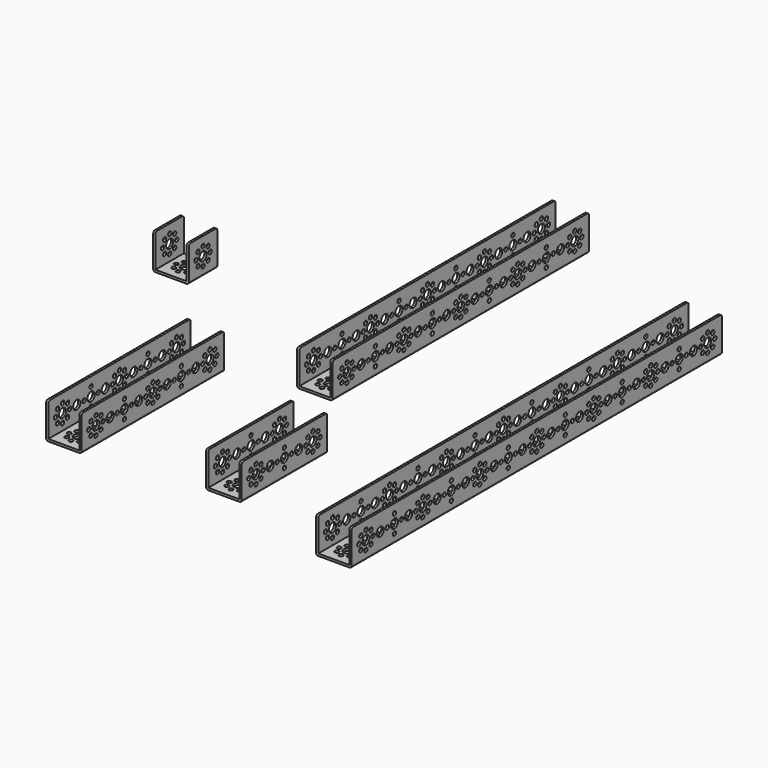
from build123d import *

# Parameters (mm, degrees)
F0_W      = 32
F0_H      = 96
F0_R      = 1.85
F0_R_2    = 4
F0_H_2    = 416
F0_H_3    = 160
F0_H_4    = 288
F1_DEPTH  = 32
F2_R      = 4
F2_R_2    = 1.85
F3_DEPTH  = 32
F4_W      = 28
F4_H      = 30
F5_DEPTH  = 96
F6_R      = 4
F6_R_2    = 1.85
F7_DEPTH  = 32
F8_W      = 28
F8_H      = 30
F9_DEPTH  = 416
F10_W     = 28
F10_H     = 30
F11_DEPTH = 508
F12_R     = 4
F12_R_2   = 1.85
F13_DEPTH = 76.2
F14_W     = 28
F14_H     = 30
F15_DEPTH = 304.8
F16_R     = 4
F16_R_2   = 1.85
F17_DEPTH = 50.8
F18_W     = 32
F18_H     = 32
F18_R     = 1.85
F18_R_2   = 4
F19_DEPTH = 32
F20_W     = 28
F20_H     = 30
F21_DEPTH = 304.8
F22_R     = 4
F22_R_2   = 1.85
F23_DEPTH = 127
F24_R     = 2
F24_2_R   = 2


with BuildPart() as f1:
    # F0 (on Top) → F1 (new body)
    with BuildSketch(Plane.XY):
        with Locations((-43.460014, -5.08384)):
            Rectangle(F0_W, F0_H)
        with Locations((-51.460014, -37.08384)):
            Circle(F0_R, mode=Mode.SUBTRACT)
        with Locations((-51.460014, -5.08384)):
            Circle(F0_R, mode=Mode.SUBTRACT)
        with Locations((-51.460014, 26.91616)):
            Circle(F0_R, mode=Mode.SUBTRACT)
        with Locations((-49.116868, -42.740695)):
            Circle(F0_R, mode=Mode.SUBTRACT)
        with Locations((-43.460014, -45.08384)):
            Circle(F0_R, mode=Mode.SUBTRACT)
        with Locations((-37.80316, -42.740695)):
            Circle(F0_R, mode=Mode.SUBTRACT)
        with Locations((-49.116868, -31.426986)):
            Circle(F0_R, mode=Mode.SUBTRACT)
        with Locations((-43.460014, -37.08384)):
            Circle(F0_R_2, mode=Mode.SUBTRACT)
        with Locations((-43.460014, -29.08384)):
            Circle(F0_R, mode=Mode.SUBTRACT)
        with Locations((-37.80316, -31.426986)):
            Circle(F0_R, mode=Mode.SUBTRACT)
        with Locations((-35.460014, -37.08384)):
            Circle(F0_R, mode=Mode.SUBTRACT)
        with Locations((-43.460014, -21.08384)):
            Circle(F0_R_2, mode=Mode.SUBTRACT)
        with Locations((-43.460014, -13.08384)):
            Circle(F0_R, mode=Mode.SUBTRACT)
        with Locations((-43.460014, -5.08384)):
            Circle(F0_R_2, mode=Mode.SUBTRACT)
        with Locations((-43.460014, 2.91616)):
            Circle(F0_R, mode=Mode.SUBTRACT)
        with Locations((-35.460014, -5.08384)):
            Circle(F0_R, mode=Mode.SUBTRACT)
        with Locations((-43.460014, 10.91616)):
            Circle(F0_R_2, mode=Mode.SUBTRACT)
        with Locations((-49.116868, 21.259305)):
            Circle(F0_R, mode=Mode.SUBTRACT)
        with Locations((-43.460014, 18.91616)):
            Circle(F0_R, mode=Mode.SUBTRACT)
        with Locations((-37.80316, 21.259305)):
            Circle(F0_R, mode=Mode.SUBTRACT)
        with Locations((-43.460014, 26.91616)):
            Circle(F0_R_2, mode=Mode.SUBTRACT)
        with Locations((-49.116868, 32.573014)):
            Circle(F0_R, mode=Mode.SUBTRACT)
        with Locations((-43.460014, 34.91616)):
            Circle(F0_R, mode=Mode.SUBTRACT)
        with Locations((-35.460014, 26.91616)):
            Circle(F0_R, mode=Mode.SUBTRACT)
        with Locations((-37.80316, 32.573014)):
            Circle(F0_R, mode=Mode.SUBTRACT)
        with Locations((79.225836, 125.137429)):
            Rectangle(F0_W, F0_H_2)
        with Locations((73.568981, -72.519425)):
            Circle(F0_R, mode=Mode.SUBTRACT)
        with Locations((71.225836, -66.862571)):
            Circle(F0_R, mode=Mode.SUBTRACT)
        with Locations((73.568981, -61.205717)):
            Circle(F0_R, mode=Mode.SUBTRACT)
        with Locations((79.225836, -74.862571)):
            Circle(F0_R, mode=Mode.SUBTRACT)
        with Locations((84.88269, -72.519425)):
            Circle(F0_R, mode=Mode.SUBTRACT)
        with Locations((79.225836, -66.862571)):
            Circle(F0_R_2, mode=Mode.SUBTRACT)
        with Locations((84.88269, -61.205717)):
            Circle(F0_R, mode=Mode.SUBTRACT)
        with Locations((79.225836, -58.862571)):
            Circle(F0_R, mode=Mode.SUBTRACT)
        with Locations((87.225836, -66.862571)):
            Circle(F0_R, mode=Mode.SUBTRACT)
        with Locations((71.225836, -34.862571)):
            Circle(F0_R, mode=Mode.SUBTRACT)
        with Locations((79.225836, -50.862571)):
            Circle(F0_R_2, mode=Mode.SUBTRACT)
        with Locations((79.225836, -42.862571)):
            Circle(F0_R, mode=Mode.SUBTRACT)
        with Locations((79.225836, -34.862571)):
            Circle(F0_R_2, mode=Mode.SUBTRACT)
        with Locations((79.225836, -26.862571)):
            Circle(F0_R, mode=Mode.SUBTRACT)
        with Locations((87.225836, -34.862571)):
            Circle(F0_R, mode=Mode.SUBTRACT)
        with Locations((73.568981, -8.519425)):
            Circle(F0_R, mode=Mode.SUBTRACT)
        with Locations((71.225836, -2.862571)):
            Circle(F0_R, mode=Mode.SUBTRACT)
        with Locations((73.568981, 2.794283)):
            Circle(F0_R, mode=Mode.SUBTRACT)
        with Locations((79.225836, -18.862571)):
            Circle(F0_R_2, mode=Mode.SUBTRACT)
        with Locations((79.225836, -10.862571)):
            Circle(F0_R, mode=Mode.SUBTRACT)
        with Locations((84.88269, -8.519425)):
            Circle(F0_R, mode=Mode.SUBTRACT)
        with Locations((79.225836, -2.862571)):
            Circle(F0_R_2, mode=Mode.SUBTRACT)
        with Locations((79.225836, 5.137429)):
            Circle(F0_R, mode=Mode.SUBTRACT)
        with Locations((84.88269, 2.794283)):
            Circle(F0_R, mode=Mode.SUBTRACT)
        with Locations((87.225836, -2.862571)):
            Circle(F0_R, mode=Mode.SUBTRACT)
        with Locations((71.225836, 29.137429)):
            Circle(F0_R, mode=Mode.SUBTRACT)
        with Locations((79.225836, 13.137429)):
            Circle(F0_R_2, mode=Mode.SUBTRACT)
        with Locations((79.225836, 21.137429)):
            Circle(F0_R, mode=Mode.SUBTRACT)
        with Locations((79.225836, 29.137429)):
            Circle(F0_R_2, mode=Mode.SUBTRACT)
        with Locations((87.225836, 29.137429)):
            Circle(F0_R, mode=Mode.SUBTRACT)
        with Locations((73.568981, 55.480575)):
            Circle(F0_R, mode=Mode.SUBTRACT)
        with Locations((71.225836, 61.137429)):
            Circle(F0_R, mode=Mode.SUBTRACT)
        with Locations((79.225836, 37.137429)):
            Circle(F0_R, mode=Mode.SUBTRACT)
        with Locations((79.225836, 45.137429)):
            Circle(F0_R_2, mode=Mode.SUBTRACT)
        with Locations((79.225836, 53.137429)):
            Circle(F0_R, mode=Mode.SUBTRACT)
        with Locations((84.88269, 55.480575)):
            Circle(F0_R, mode=Mode.SUBTRACT)
        with Locations((79.225836, 61.137429)):
            Circle(F0_R_2, mode=Mode.SUBTRACT)
        with Locations((87.225836, 61.137429)):
            Circle(F0_R, mode=Mode.SUBTRACT)
        with Locations((73.568981, 66.794283)):
            Circle(F0_R, mode=Mode.SUBTRACT)
        with Locations((71.225836, 93.137429)):
            Circle(F0_R, mode=Mode.SUBTRACT)
        with Locations((79.225836, 69.137429)):
            Circle(F0_R, mode=Mode.SUBTRACT)
        with Locations((84.88269, 66.794283)):
            Circle(F0_R, mode=Mode.SUBTRACT)
        with Locations((79.225836, 77.137429)):
            Circle(F0_R_2, mode=Mode.SUBTRACT)
        with Locations((79.225836, 85.137429)):
            Circle(F0_R, mode=Mode.SUBTRACT)
        with Locations((79.225836, 93.137429)):
            Circle(F0_R_2, mode=Mode.SUBTRACT)
        with Locations((87.225836, 93.137429)):
            Circle(F0_R, mode=Mode.SUBTRACT)
        with Locations((71.225836, 125.137429)):
            Circle(F0_R, mode=Mode.SUBTRACT)
        with Locations((73.568981, 119.480575)):
            Circle(F0_R, mode=Mode.SUBTRACT)
        with Locations((79.225836, 101.137429)):
            Circle(F0_R, mode=Mode.SUBTRACT)
        with Locations((79.225836, 109.137429)):
            Circle(F0_R_2, mode=Mode.SUBTRACT)
        with Locations((79.225836, 117.137429)):
            Circle(F0_R, mode=Mode.SUBTRACT)
        with Locations((79.225836, 125.137429)):
            Circle(F0_R_2, mode=Mode.SUBTRACT)
        with Locations((84.88269, 119.480575)):
            Circle(F0_R, mode=Mode.SUBTRACT)
        with Locations((87.225836, 125.137429)):
            Circle(F0_R, mode=Mode.SUBTRACT)
        with Locations((73.568981, 130.794283)):
            Circle(F0_R, mode=Mode.SUBTRACT)
        with Locations((79.225836, 133.137429)):
            Circle(F0_R, mode=Mode.SUBTRACT)
        with Locations((84.88269, 130.794283)):
            Circle(F0_R, mode=Mode.SUBTRACT)
        with Locations((79.225836, 141.137429)):
            Circle(F0_R_2, mode=Mode.SUBTRACT)
        with Locations((79.225836, 149.137429)):
            Circle(F0_R, mode=Mode.SUBTRACT)
        with Locations((71.225836, 157.137429)):
            Circle(F0_R, mode=Mode.SUBTRACT)
        with Locations((73.568981, 183.480575)):
            Circle(F0_R, mode=Mode.SUBTRACT)
        with Locations((79.225836, 157.137429)):
            Circle(F0_R_2, mode=Mode.SUBTRACT)
        with Locations((79.225836, 165.137429)):
            Circle(F0_R, mode=Mode.SUBTRACT)
        with Locations((87.225836, 157.137429)):
            Circle(F0_R, mode=Mode.SUBTRACT)
        with Locations((79.225836, 173.137429)):
            Circle(F0_R_2, mode=Mode.SUBTRACT)
        with Locations((79.225836, 181.137429)):
            Circle(F0_R, mode=Mode.SUBTRACT)
        with Locations((84.88269, 183.480575)):
            Circle(F0_R, mode=Mode.SUBTRACT)
        with Locations((71.225836, 189.137429)):
            Circle(F0_R, mode=Mode.SUBTRACT)
        with Locations((73.568981, 194.794283)):
            Circle(F0_R, mode=Mode.SUBTRACT)
        with Locations((79.225836, 189.137429)):
            Circle(F0_R_2, mode=Mode.SUBTRACT)
        with Locations((79.225836, 197.137429)):
            Circle(F0_R, mode=Mode.SUBTRACT)
        with Locations((84.88269, 194.794283)):
            Circle(F0_R, mode=Mode.SUBTRACT)
        with Locations((87.225836, 189.137429)):
            Circle(F0_R, mode=Mode.SUBTRACT)
        with Locations((79.225836, 205.137429)):
            Circle(F0_R_2, mode=Mode.SUBTRACT)
        with Locations((79.225836, 213.137429)):
            Circle(F0_R, mode=Mode.SUBTRACT)
        with Locations((71.225836, 221.137429)):
            Circle(F0_R, mode=Mode.SUBTRACT)
        with Locations((79.225836, 221.137429)):
            Circle(F0_R_2, mode=Mode.SUBTRACT)
        with Locations((79.225836, 229.137429)):
            Circle(F0_R, mode=Mode.SUBTRACT)
        with Locations((87.225836, 221.137429)):
            Circle(F0_R, mode=Mode.SUBTRACT)
        with Locations((79.225836, 237.137429)):
            Circle(F0_R_2, mode=Mode.SUBTRACT)
        with Locations((79.225836, 245.137429)):
            Circle(F0_R, mode=Mode.SUBTRACT)
        with Locations((71.225836, 253.137429)):
            Circle(F0_R, mode=Mode.SUBTRACT)
        with Locations((73.568981, 247.480575)):
            Circle(F0_R, mode=Mode.SUBTRACT)
        with Locations((73.568981, 258.794283)):
            Circle(F0_R, mode=Mode.SUBTRACT)
        with Locations((79.225836, 253.137429)):
            Circle(F0_R_2, mode=Mode.SUBTRACT)
        with Locations((84.88269, 247.480575)):
            Circle(F0_R, mode=Mode.SUBTRACT)
        with Locations((84.88269, 258.794283)):
            Circle(F0_R, mode=Mode.SUBTRACT)
        with Locations((87.225836, 253.137429)):
            Circle(F0_R, mode=Mode.SUBTRACT)
        with Locations((79.225836, 261.137429)):
            Circle(F0_R, mode=Mode.SUBTRACT)
        with Locations((79.225836, 269.137429)):
            Circle(F0_R_2, mode=Mode.SUBTRACT)
        with Locations((71.225836, 285.137429)):
            Circle(F0_R, mode=Mode.SUBTRACT)
        with Locations((79.225836, 277.137429)):
            Circle(F0_R, mode=Mode.SUBTRACT)
        with Locations((79.225836, 285.137429)):
            Circle(F0_R_2, mode=Mode.SUBTRACT)
        with Locations((87.225836, 285.137429)):
            Circle(F0_R, mode=Mode.SUBTRACT)
        with Locations((79.225836, 293.137429)):
            Circle(F0_R, mode=Mode.SUBTRACT)
        with Locations((79.225836, 301.137429)):
            Circle(F0_R_2, mode=Mode.SUBTRACT)
        with Locations((73.568981, 311.480575)):
            Circle(F0_R, mode=Mode.SUBTRACT)
        with Locations((71.225836, 317.137429)):
            Circle(F0_R, mode=Mode.SUBTRACT)
        with Locations((73.568981, 322.794283)):
            Circle(F0_R, mode=Mode.SUBTRACT)
        with Locations((79.225836, 309.137429)):
            Circle(F0_R, mode=Mode.SUBTRACT)
        with Locations((84.88269, 311.480575)):
            Circle(F0_R, mode=Mode.SUBTRACT)
        with Locations((79.225836, 317.137429)):
            Circle(F0_R_2, mode=Mode.SUBTRACT)
        with Locations((87.225836, 317.137429)):
            Circle(F0_R, mode=Mode.SUBTRACT)
        with Locations((79.225836, 325.137429)):
            Circle(F0_R, mode=Mode.SUBTRACT)
        with Locations((84.88269, 322.794283)):
            Circle(F0_R, mode=Mode.SUBTRACT)
        with Locations((-177.520144, 14.724279)):
            Rectangle(F0_W, F0_H_3)
        with Locations((-183.176998, -54.932576)):
            Circle(F0_R, mode=Mode.SUBTRACT)
        with Locations((-177.520144, -57.275721)):
            Circle(F0_R, mode=Mode.SUBTRACT)
        with Locations((-171.863289, -54.932576)):
            Circle(F0_R, mode=Mode.SUBTRACT)
        with Locations((-185.520144, -49.275721)):
            Circle(F0_R, mode=Mode.SUBTRACT)
        with Locations((-177.520144, -49.275721)):
            Circle(F0_R_2, mode=Mode.SUBTRACT)
        with Locations((-183.176998, -43.618867)):
            Circle(F0_R, mode=Mode.SUBTRACT)
        with Locations((-177.520144, -41.275721)):
            Circle(F0_R, mode=Mode.SUBTRACT)
        with Locations((-177.520144, -33.275721)):
            Circle(F0_R_2, mode=Mode.SUBTRACT)
        with Locations((-177.520144, -25.275721)):
            Circle(F0_R, mode=Mode.SUBTRACT)
        with Locations((-169.520144, -49.275721)):
            Circle(F0_R, mode=Mode.SUBTRACT)
        with Locations((-171.863289, -43.618867)):
            Circle(F0_R, mode=Mode.SUBTRACT)
        with Locations((-185.520144, -17.275721)):
            Circle(F0_R, mode=Mode.SUBTRACT)
        with Locations((-177.520144, -17.275721)):
            Circle(F0_R_2, mode=Mode.SUBTRACT)
        with Locations((-177.520144, -9.275721)):
            Circle(F0_R, mode=Mode.SUBTRACT)
        with Locations((-177.520144, -1.275721)):
            Circle(F0_R_2, mode=Mode.SUBTRACT)
        with Locations((-177.520144, 6.724279)):
            Circle(F0_R, mode=Mode.SUBTRACT)
        with Locations((-169.520144, -17.275721)):
            Circle(F0_R, mode=Mode.SUBTRACT)
        with Locations((-185.520144, 14.724279)):
            Circle(F0_R, mode=Mode.SUBTRACT)
        with Locations((-183.176998, 9.067424)):
            Circle(F0_R, mode=Mode.SUBTRACT)
        with Locations((-183.176998, 20.381133)):
            Circle(F0_R, mode=Mode.SUBTRACT)
        with Locations((-177.520144, 14.724279)):
            Circle(F0_R_2, mode=Mode.SUBTRACT)
        with Locations((-177.520144, 22.724279)):
            Circle(F0_R, mode=Mode.SUBTRACT)
        with Locations((-177.520144, 30.724279)):
            Circle(F0_R_2, mode=Mode.SUBTRACT)
        with Locations((-171.863289, 9.067424)):
            Circle(F0_R, mode=Mode.SUBTRACT)
        with Locations((-171.863289, 20.381133)):
            Circle(F0_R, mode=Mode.SUBTRACT)
        with Locations((-169.520144, 14.724279)):
            Circle(F0_R, mode=Mode.SUBTRACT)
        with Locations((-185.520144, 46.724279)):
            Circle(F0_R, mode=Mode.SUBTRACT)
        with Locations((-177.520144, 38.724279)):
            Circle(F0_R, mode=Mode.SUBTRACT)
        with Locations((-177.520144, 46.724279)):
            Circle(F0_R_2, mode=Mode.SUBTRACT)
        with Locations((-177.520144, 54.724279)):
            Circle(F0_R, mode=Mode.SUBTRACT)
        with Locations((-177.520144, 62.724279)):
            Circle(F0_R_2, mode=Mode.SUBTRACT)
        with Locations((-169.520144, 46.724279)):
            Circle(F0_R, mode=Mode.SUBTRACT)
        with Locations((-185.520144, 78.724279)):
            Circle(F0_R, mode=Mode.SUBTRACT)
        with Locations((-183.176998, 73.067424)):
            Circle(F0_R, mode=Mode.SUBTRACT)
        with Locations((-177.520144, 70.724279)):
            Circle(F0_R, mode=Mode.SUBTRACT)
        with Locations((-177.520144, 78.724279)):
            Circle(F0_R_2, mode=Mode.SUBTRACT)
        with Locations((-183.176998, 84.381133)):
            Circle(F0_R, mode=Mode.SUBTRACT)
        with Locations((-177.520144, 86.724279)):
            Circle(F0_R, mode=Mode.SUBTRACT)
        with Locations((-171.863289, 73.067424)):
            Circle(F0_R, mode=Mode.SUBTRACT)
        with Locations((-169.520144, 78.724279)):
            Circle(F0_R, mode=Mode.SUBTRACT)
        with Locations((-171.863289, 84.381133)):
            Circle(F0_R, mode=Mode.SUBTRACT)
        with Locations((-90.071611, 251.399352)):
            Rectangle(F0_W, F0_H_4)
        with Locations((-95.728465, 117.742498)):
            Circle(F0_R, mode=Mode.SUBTRACT)
        with Locations((-98.071611, 123.399352)):
            Circle(F0_R, mode=Mode.SUBTRACT)
        with Locations((-90.071611, 115.399352)):
            Circle(F0_R, mode=Mode.SUBTRACT)
        with Locations((-90.071611, 123.399352)):
            Circle(F0_R_2, mode=Mode.SUBTRACT)
        with Locations((-95.728465, 129.056206)):
            Circle(F0_R, mode=Mode.SUBTRACT)
        with Locations((-90.071611, 131.399352)):
            Circle(F0_R, mode=Mode.SUBTRACT)
        with Locations((-90.071611, 139.399352)):
            Circle(F0_R_2, mode=Mode.SUBTRACT)
        with Locations((-98.071611, 155.399352)):
            Circle(F0_R, mode=Mode.SUBTRACT)
        with Locations((-90.071611, 147.399352)):
            Circle(F0_R, mode=Mode.SUBTRACT)
        with Locations((-90.071611, 155.399352)):
            Circle(F0_R_2, mode=Mode.SUBTRACT)
        with Locations((-84.414757, 117.742498)):
            Circle(F0_R, mode=Mode.SUBTRACT)
        with Locations((-82.071611, 123.399352)):
            Circle(F0_R, mode=Mode.SUBTRACT)
        with Locations((-84.414757, 129.056206)):
            Circle(F0_R, mode=Mode.SUBTRACT)
        with Locations((-82.071611, 155.399352)):
            Circle(F0_R, mode=Mode.SUBTRACT)
        with Locations((-90.071611, 163.399352)):
            Circle(F0_R, mode=Mode.SUBTRACT)
        with Locations((-95.728465, 181.742498)):
            Circle(F0_R, mode=Mode.SUBTRACT)
        with Locations((-90.071611, 171.399352)):
            Circle(F0_R_2, mode=Mode.SUBTRACT)
        with Locations((-90.071611, 179.399352)):
            Circle(F0_R, mode=Mode.SUBTRACT)
        with Locations((-98.071611, 187.399352)):
            Circle(F0_R, mode=Mode.SUBTRACT)
        with Locations((-95.728465, 193.056206)):
            Circle(F0_R, mode=Mode.SUBTRACT)
        with Locations((-90.071611, 187.399352)):
            Circle(F0_R_2, mode=Mode.SUBTRACT)
        with Locations((-90.071611, 195.399352)):
            Circle(F0_R, mode=Mode.SUBTRACT)
        with Locations((-90.071611, 203.399352)):
            Circle(F0_R_2, mode=Mode.SUBTRACT)
        with Locations((-90.071611, 211.399352)):
            Circle(F0_R, mode=Mode.SUBTRACT)
        with Locations((-84.414757, 181.742498)):
            Circle(F0_R, mode=Mode.SUBTRACT)
        with Locations((-82.071611, 187.399352)):
            Circle(F0_R, mode=Mode.SUBTRACT)
        with Locations((-84.414757, 193.056206)):
            Circle(F0_R, mode=Mode.SUBTRACT)
        with Locations((-98.071611, 219.399352)):
            Circle(F0_R, mode=Mode.SUBTRACT)
        with Locations((-90.071611, 219.399352)):
            Circle(F0_R_2, mode=Mode.SUBTRACT)
        with Locations((-90.071611, 227.399352)):
            Circle(F0_R, mode=Mode.SUBTRACT)
        with Locations((-95.728465, 245.742498)):
            Circle(F0_R, mode=Mode.SUBTRACT)
        with Locations((-90.071611, 235.399352)):
            Circle(F0_R_2, mode=Mode.SUBTRACT)
        with Locations((-90.071611, 243.399352)):
            Circle(F0_R, mode=Mode.SUBTRACT)
        with Locations((-98.071611, 251.399352)):
            Circle(F0_R, mode=Mode.SUBTRACT)
        with Locations((-95.728465, 257.056206)):
            Circle(F0_R, mode=Mode.SUBTRACT)
        with Locations((-90.071611, 251.399352)):
            Circle(F0_R_2, mode=Mode.SUBTRACT)
        with Locations((-90.071611, 259.399352)):
            Circle(F0_R, mode=Mode.SUBTRACT)
        with Locations((-90.071611, 267.399352)):
            Circle(F0_R_2, mode=Mode.SUBTRACT)
        with Locations((-90.071611, 275.399352)):
            Circle(F0_R, mode=Mode.SUBTRACT)
        with Locations((-82.071611, 219.399352)):
            Circle(F0_R, mode=Mode.SUBTRACT)
        with Locations((-84.414757, 245.742498)):
            Circle(F0_R, mode=Mode.SUBTRACT)
        with Locations((-82.071611, 251.399352)):
            Circle(F0_R, mode=Mode.SUBTRACT)
        with Locations((-84.414757, 257.056206)):
            Circle(F0_R, mode=Mode.SUBTRACT)
        with Locations((-98.071611, 283.399352)):
            Circle(F0_R, mode=Mode.SUBTRACT)
        with Locations((-90.071611, 283.399352)):
            Circle(F0_R_2, mode=Mode.SUBTRACT)
        with Locations((-90.071611, 291.399352)):
            Circle(F0_R, mode=Mode.SUBTRACT)
        with Locations((-90.071611, 299.399352)):
            Circle(F0_R_2, mode=Mode.SUBTRACT)
        with Locations((-95.728465, 309.742498)):
            Circle(F0_R, mode=Mode.SUBTRACT)
        with Locations((-98.071611, 315.399352)):
            Circle(F0_R, mode=Mode.SUBTRACT)
        with Locations((-90.071611, 307.399352)):
            Circle(F0_R, mode=Mode.SUBTRACT)
        with Locations((-90.071611, 315.399352)):
            Circle(F0_R_2, mode=Mode.SUBTRACT)
        with Locations((-95.728465, 321.056206)):
            Circle(F0_R, mode=Mode.SUBTRACT)
        with Locations((-90.071611, 323.399352)):
            Circle(F0_R, mode=Mode.SUBTRACT)
        with Locations((-90.071611, 331.399352)):
            Circle(F0_R_2, mode=Mode.SUBTRACT)
        with Locations((-82.071611, 283.399352)):
            Circle(F0_R, mode=Mode.SUBTRACT)
        with Locations((-84.414757, 309.742498)):
            Circle(F0_R, mode=Mode.SUBTRACT)
        with Locations((-82.071611, 315.399352)):
            Circle(F0_R, mode=Mode.SUBTRACT)
        with Locations((-84.414757, 321.056206)):
            Circle(F0_R, mode=Mode.SUBTRACT)
        with Locations((-98.071611, 347.399352)):
            Circle(F0_R, mode=Mode.SUBTRACT)
        with Locations((-90.071611, 339.399352)):
            Circle(F0_R, mode=Mode.SUBTRACT)
        with Locations((-90.071611, 347.399352)):
            Circle(F0_R_2, mode=Mode.SUBTRACT)
        with Locations((-90.071611, 355.399352)):
            Circle(F0_R, mode=Mode.SUBTRACT)
        with Locations((-90.071611, 363.399352)):
            Circle(F0_R_2, mode=Mode.SUBTRACT)
        with Locations((-95.728465, 373.742498)):
            Circle(F0_R, mode=Mode.SUBTRACT)
        with Locations((-98.071611, 379.399352)):
            Circle(F0_R, mode=Mode.SUBTRACT)
        with Locations((-90.071611, 371.399352)):
            Circle(F0_R, mode=Mode.SUBTRACT)
        with Locations((-90.071611, 379.399352)):
            Circle(F0_R_2, mode=Mode.SUBTRACT)
        with Locations((-95.728465, 385.056206)):
            Circle(F0_R, mode=Mode.SUBTRACT)
        with Locations((-90.071611, 387.399352)):
            Circle(F0_R, mode=Mode.SUBTRACT)
        with Locations((-82.071611, 347.399352)):
            Circle(F0_R, mode=Mode.SUBTRACT)
        with Locations((-84.414757, 373.742498)):
            Circle(F0_R, mode=Mode.SUBTRACT)
        with Locations((-82.071611, 379.399352)):
            Circle(F0_R, mode=Mode.SUBTRACT)
        with Locations((-84.414757, 385.056206)):
            Circle(F0_R, mode=Mode.SUBTRACT)
    extrude(amount=F1_DEPTH)

    # F2 (on face) → F3 (cut)
    with BuildSketch(Plane.YZ.offset(-27.460014)):
        with Locations((-37.08384, 16)):
            Circle(F2_R)
        with Locations((-45.08384, 16)):
            Circle(F2_R_2)
        with Locations((-42.740695, 10.343146)):
            Circle(F2_R_2)
        with Locations((-37.08384, 8)):
            Circle(F2_R_2)
        with Locations((-31.426986, 10.343146)):
            Circle(F2_R_2)
        with Locations((-29.08384, 16)):
            Circle(F2_R_2)
        with Locations((-31.426986, 21.656854)):
            Circle(F2_R_2)
        with Locations((-37.08384, 24)):
            Circle(F2_R_2)
        with Locations((-42.740695, 21.656854)):
            Circle(F2_R_2)
        with Locations((2.91616, 16)):
            Circle(F2_R_2)
        with Locations((-5.08384, 8)):
            Circle(F2_R_2)
        with Locations((-13.08384, 16)):
            Circle(F2_R_2)
        with Locations((-5.08384, 24)):
            Circle(F2_R_2)
        with Locations((34.91616, 16)):
            Circle(F2_R_2)
        with Locations((32.573014, 10.343146)):
            Circle(F2_R_2)
        with Locations((26.91616, 8)):
            Circle(F2_R_2)
        with Locations((21.259305, 10.343146)):
            Circle(F2_R_2)
        with Locations((18.91616, 16)):
            Circle(F2_R_2)
        with Locations((21.259305, 21.656854)):
            Circle(F2_R_2)
        with Locations((26.91616, 24)):
            Circle(F2_R_2)
        with Locations((32.573014, 21.656854)):
            Circle(F2_R_2)
        with Locations((-21.08384, 16)):
            Circle(F2_R)
        with Locations((-5.08384, 16)):
            Circle(F2_R)
        with Locations((10.91616, 16)):
            Circle(F2_R)
        with Locations((26.91616, 16)):
            Circle(F2_R)
    extrude(amount=-F3_DEPTH, mode=Mode.SUBTRACT)

    # F4 (on face) → F5 (cut)
    with BuildSketch(Plane.XZ.offset(53.08384)):
        with Locations((-43.460014, 17)):
            Rectangle(F4_W, F4_H)
    extrude(amount=-F5_DEPTH, mode=Mode.SUBTRACT)

    # F6 (on face) → F7 (cut)
    with BuildSketch(Plane.YZ.offset(95.225836)):
        with Locations((-66.862571, 16)):
            Circle(F6_R)
        with Locations((-74.862571, 16)):
            Circle(F6_R_2)
        with Locations((-72.519425, 10.343146)):
            Circle(F6_R_2)
        with Locations((-66.862571, 8)):
            Circle(F6_R_2)
        with Locations((-61.205717, 10.343146)):
            Circle(F6_R_2)
        with Locations((-58.862571, 16)):
            Circle(F6_R_2)
        with Locations((-61.205717, 21.656854)):
            Circle(F6_R_2)
        with Locations((-66.862571, 24)):
            Circle(F6_R_2)
        with Locations((-72.519425, 21.656854)):
            Circle(F6_R_2)
        with Locations((-50.862571, 16)):
            Circle(F6_R)
        with Locations((-34.862571, 16)):
            Circle(F6_R)
        with Locations((-18.862571, 16)):
            Circle(F6_R)
        with Locations((-2.862571, 16)):
            Circle(F6_R)
        with Locations((13.137429, 16)):
            Circle(F6_R)
        with Locations((29.137429, 16)):
            Circle(F6_R)
        with Locations((45.137429, 16)):
            Circle(F6_R)
        with Locations((61.137429, 16)):
            Circle(F6_R)
        with Locations((77.137429, 16)):
            Circle(F6_R)
        with Locations((93.137429, 16)):
            Circle(F6_R)
        with Locations((109.137429, 16)):
            Circle(F6_R)
        with Locations((125.137429, 16)):
            Circle(F6_R)
        with Locations((141.137429, 16)):
            Circle(F6_R)
        with Locations((157.137429, 16)):
            Circle(F6_R)
        with Locations((173.137429, 16)):
            Circle(F6_R)
        with Locations((189.137429, 16)):
            Circle(F6_R)
        with Locations((205.137429, 16)):
            Circle(F6_R)
        with Locations((221.137429, 16)):
            Circle(F6_R)
        with Locations((237.137429, 16)):
            Circle(F6_R)
        with Locations((253.137429, 16)):
            Circle(F6_R)
        with Locations((269.137429, 16)):
            Circle(F6_R)
        with Locations((285.137429, 16)):
            Circle(F6_R)
        with Locations((301.137429, 16)):
            Circle(F6_R)
        with Locations((317.137429, 16)):
            Circle(F6_R)
        with Locations((-34.862571, 8)):
            Circle(F6_R_2)
        with Locations((-42.862571, 16)):
            Circle(F6_R_2)
        with Locations((-34.862571, 24)):
            Circle(F6_R_2)
        with Locations((-26.862571, 16)):
            Circle(F6_R_2)
        with Locations((-2.862571, 8)):
            Circle(F6_R_2)
        with Locations((-10.862571, 16)):
            Circle(F6_R_2)
        with Locations((-2.862571, 24)):
            Circle(F6_R_2)
        with Locations((5.137429, 16)):
            Circle(F6_R_2)
        with Locations((29.137429, 8)):
            Circle(F6_R_2)
        with Locations((21.137429, 16)):
            Circle(F6_R_2)
        with Locations((29.137429, 24)):
            Circle(F6_R_2)
        with Locations((37.137429, 16)):
            Circle(F6_R_2)
        with Locations((61.137429, 8)):
            Circle(F6_R_2)
        with Locations((53.137429, 16)):
            Circle(F6_R_2)
        with Locations((61.137429, 24)):
            Circle(F6_R_2)
        with Locations((69.137429, 16)):
            Circle(F6_R_2)
        with Locations((93.137429, 8)):
            Circle(F6_R_2)
        with Locations((85.137429, 16)):
            Circle(F6_R_2)
        with Locations((93.137429, 24)):
            Circle(F6_R_2)
        with Locations((101.137429, 16)):
            Circle(F6_R_2)
        with Locations((125.137429, 8)):
            Circle(F6_R_2)
        with Locations((117.137429, 16)):
            Circle(F6_R_2)
        with Locations((125.137429, 24)):
            Circle(F6_R_2)
        with Locations((133.137429, 16)):
            Circle(F6_R_2)
        with Locations((157.137429, 8)):
            Circle(F6_R_2)
        with Locations((149.137429, 16)):
            Circle(F6_R_2)
        with Locations((157.137429, 24)):
            Circle(F6_R_2)
        with Locations((165.137429, 16)):
            Circle(F6_R_2)
        with Locations((189.137429, 8)):
            Circle(F6_R_2)
        with Locations((181.137429, 16)):
            Circle(F6_R_2)
        with Locations((189.137429, 24)):
            Circle(F6_R_2)
        with Locations((197.137429, 16)):
            Circle(F6_R_2)
        with Locations((221.137429, 8)):
            Circle(F6_R_2)
        with Locations((213.137429, 16)):
            Circle(F6_R_2)
        with Locations((221.137429, 24)):
            Circle(F6_R_2)
        with Locations((229.137429, 16)):
            Circle(F6_R_2)
        with Locations((253.137429, 8)):
            Circle(F6_R_2)
        with Locations((245.137429, 16)):
            Circle(F6_R_2)
        with Locations((253.137429, 24)):
            Circle(F6_R_2)
        with Locations((261.137429, 16)):
            Circle(F6_R_2)
        with Locations((285.137429, 8)):
            Circle(F6_R_2)
        with Locations((277.137429, 16)):
            Circle(F6_R_2)
        with Locations((285.137429, 24)):
            Circle(F6_R_2)
        with Locations((293.137429, 16)):
            Circle(F6_R_2)
        with Locations((317.137429, 8)):
            Circle(F6_R_2)
        with Locations((309.137429, 16)):
            Circle(F6_R_2)
        with Locations((317.137429, 24)):
            Circle(F6_R_2)
        with Locations((325.137429, 16)):
            Circle(F6_R_2)
        with Locations((2.794283, 10.343146)):
            Circle(F6_R_2)
        with Locations((-8.519425, 10.343146)):
            Circle(F6_R_2)
        with Locations((-8.519425, 21.656854)):
            Circle(F6_R_2)
        with Locations((2.794283, 21.656854)):
            Circle(F6_R_2)
        with Locations((66.794283, 10.343146)):
            Circle(F6_R_2)
        with Locations((55.480575, 10.343146)):
            Circle(F6_R_2)
        with Locations((55.480575, 21.656854)):
            Circle(F6_R_2)
        with Locations((66.794283, 21.656854)):
            Circle(F6_R_2)
        with Locations((130.794283, 10.343146)):
            Circle(F6_R_2)
        with Locations((119.480575, 10.343146)):
            Circle(F6_R_2)
        with Locations((119.480575, 21.656854)):
            Circle(F6_R_2)
        with Locations((130.794283, 21.656854)):
            Circle(F6_R_2)
        with Locations((194.794283, 10.343146)):
            Circle(F6_R_2)
        with Locations((183.480575, 10.343146)):
            Circle(F6_R_2)
        with Locations((183.480575, 21.656854)):
            Circle(F6_R_2)
        with Locations((194.794283, 21.656854)):
            Circle(F6_R_2)
        with Locations((258.794283, 10.343146)):
            Circle(F6_R_2)
        with Locations((247.480575, 10.343146)):
            Circle(F6_R_2)
        with Locations((247.480575, 21.656854)):
            Circle(F6_R_2)
        with Locations((258.794283, 21.656854)):
            Circle(F6_R_2)
        with Locations((322.794283, 10.343146)):
            Circle(F6_R_2)
        with Locations((311.480575, 10.343146)):
            Circle(F6_R_2)
        with Locations((311.480575, 21.656854)):
            Circle(F6_R_2)
        with Locations((322.794283, 21.656854)):
            Circle(F6_R_2)
    extrude(amount=-F7_DEPTH, mode=Mode.SUBTRACT)

    # F8 (on face) → F9 (cut)
    with BuildSketch(Plane.XZ.offset(82.862571)):
        with Locations((79.225836, 17)):
            Rectangle(F8_W, F8_H)
    extrude(amount=-F9_DEPTH, mode=Mode.SUBTRACT)

    # F10 (on face) → F11 (cut)
    with BuildSketch(Plane.XZ.offset(65.275721)):
        with Locations((-177.520144, 17)):
            Rectangle(F10_W, F10_H)
    extrude(amount=-F11_DEPTH, mode=Mode.SUBTRACT)

    # F12 (on face) → F13 (cut)
    with BuildSketch(Plane(origin=(-193.520144, 0, 0), x_dir=(0, -1, 0), z_dir=(-1, 0, 0))):
        with Locations((-78.724279, 16)):
            Circle(F12_R)
        with Locations((-86.724279, 16)):
            Circle(F12_R_2)
        with Locations((-84.381133, 10.343146)):
            Circle(F12_R_2)
        with Locations((-78.724279, 8)):
            Circle(F12_R_2)
        with Locations((-73.067424, 10.343146)):
            Circle(F12_R_2)
        with Locations((-70.724279, 16)):
            Circle(F12_R_2)
        with Locations((-73.067424, 21.656854)):
            Circle(F12_R_2)
        with Locations((-78.724279, 24)):
            Circle(F12_R_2)
        with Locations((-84.381133, 21.656854)):
            Circle(F12_R_2)
        with Locations((-46.724279, 8)):
            Circle(F12_R_2)
        with Locations((-46.724279, 16)):
            Circle(F12_R)
        with Locations((-54.724279, 16)):
            Circle(F12_R_2)
        with Locations((-46.724279, 24)):
            Circle(F12_R_2)
        with Locations((-38.724279, 16)):
            Circle(F12_R_2)
        with Locations((-9.067424, 10.343146)):
            Circle(F12_R_2)
        with Locations((-14.724279, 8)):
            Circle(F12_R_2)
        with Locations((-20.381133, 10.343146)):
            Circle(F12_R_2)
        with Locations((-14.724279, 16)):
            Circle(F12_R)
        with Locations((-22.724279, 16)):
            Circle(F12_R_2)
        with Locations((-20.381133, 21.656854)):
            Circle(F12_R_2)
        with Locations((-14.724279, 24)):
            Circle(F12_R_2)
        with Locations((-9.067424, 21.656854)):
            Circle(F12_R_2)
        with Locations((-6.724279, 16)):
            Circle(F12_R_2)
        with Locations((17.275721, 8)):
            Circle(F12_R_2)
        with Locations((17.275721, 16)):
            Circle(F12_R)
        with Locations((9.275721, 16)):
            Circle(F12_R_2)
        with Locations((17.275721, 24)):
            Circle(F12_R_2)
        with Locations((25.275721, 16)):
            Circle(F12_R_2)
        with Locations((54.932576, 10.343146)):
            Circle(F12_R_2)
        with Locations((49.275721, 8)):
            Circle(F12_R_2)
        with Locations((43.618867, 10.343146)):
            Circle(F12_R_2)
        with Locations((49.275721, 16)):
            Circle(F12_R)
        with Locations((41.275721, 16)):
            Circle(F12_R_2)
        with Locations((43.618867, 21.656854)):
            Circle(F12_R_2)
        with Locations((49.275721, 24)):
            Circle(F12_R_2)
        with Locations((54.932576, 21.656854)):
            Circle(F12_R_2)
        with Locations((57.275721, 16)):
            Circle(F12_R_2)
        with Locations((-62.724279, 16)):
            Circle(F12_R)
        with Locations((-30.724279, 16)):
            Circle(F12_R)
        with Locations((1.275721, 16)):
            Circle(F12_R)
        with Locations((33.275721, 16)):
            Circle(F12_R)
    extrude(amount=-F13_DEPTH, mode=Mode.SUBTRACT)

    # F14 (on face) → F15 (cut)
    with BuildSketch(Plane.XZ.offset(-107.399352)):
        with Locations((-90.071611, 17)):
            Rectangle(F14_W, F14_H)
    extrude(amount=-F15_DEPTH, mode=Mode.SUBTRACT)

    # F16 (on face) → F17 (cut)
    with BuildSketch(Plane(origin=(-106.071611, 0, 0), x_dir=(0, -1, 0), z_dir=(-1, 0, 0))):
        with Locations((-379.399352, 16)):
            Circle(F16_R)
        with Locations((-387.399352, 16)):
            Circle(F16_R_2)
        with Locations((-385.056206, 10.343146)):
            Circle(F16_R_2)
        with Locations((-379.399352, 8)):
            Circle(F16_R_2)
        with Locations((-373.742498, 10.343146)):
            Circle(F16_R_2)
        with Locations((-371.399352, 16)):
            Circle(F16_R_2)
        with Locations((-373.742498, 21.656854)):
            Circle(F16_R_2)
        with Locations((-379.399352, 24)):
            Circle(F16_R_2)
        with Locations((-385.056206, 21.656854)):
            Circle(F16_R_2)
        with Locations((-339.399352, 16)):
            Circle(F16_R_2)
        with Locations((-347.399352, 16)):
            Circle(F16_R)
        with Locations((-347.399352, 8)):
            Circle(F16_R_2)
        with Locations((-355.399352, 16)):
            Circle(F16_R_2)
        with Locations((-347.399352, 24)):
            Circle(F16_R_2)
        with Locations((-307.399352, 16)):
            Circle(F16_R_2)
        with Locations((-315.399352, 16)):
            Circle(F16_R)
        with Locations((-309.742498, 10.343146)):
            Circle(F16_R_2)
        with Locations((-315.399352, 8)):
            Circle(F16_R_2)
        with Locations((-321.056206, 10.343146)):
            Circle(F16_R_2)
        with Locations((-323.399352, 16)):
            Circle(F16_R_2)
        with Locations((-321.056206, 21.656854)):
            Circle(F16_R_2)
        with Locations((-315.399352, 24)):
            Circle(F16_R_2)
        with Locations((-309.742498, 21.656854)):
            Circle(F16_R_2)
        with Locations((-275.399352, 16)):
            Circle(F16_R_2)
        with Locations((-283.399352, 16)):
            Circle(F16_R)
        with Locations((-283.399352, 8)):
            Circle(F16_R_2)
        with Locations((-291.399352, 16)):
            Circle(F16_R_2)
        with Locations((-283.399352, 24)):
            Circle(F16_R_2)
        with Locations((-243.399352, 16)):
            Circle(F16_R_2)
        with Locations((-251.399352, 16)):
            Circle(F16_R)
        with Locations((-245.742498, 10.343146)):
            Circle(F16_R_2)
        with Locations((-251.399352, 8)):
            Circle(F16_R_2)
        with Locations((-257.056206, 10.343146)):
            Circle(F16_R_2)
        with Locations((-259.399352, 16)):
            Circle(F16_R_2)
        with Locations((-257.056206, 21.656854)):
            Circle(F16_R_2)
        with Locations((-251.399352, 24)):
            Circle(F16_R_2)
        with Locations((-245.742498, 21.656854)):
            Circle(F16_R_2)
        with Locations((-211.399352, 16)):
            Circle(F16_R_2)
        with Locations((-219.399352, 16)):
            Circle(F16_R)
        with Locations((-219.399352, 8)):
            Circle(F16_R_2)
        with Locations((-227.399352, 16)):
            Circle(F16_R_2)
        with Locations((-219.399352, 24)):
            Circle(F16_R_2)
        with Locations((-179.399352, 16)):
            Circle(F16_R_2)
        with Locations((-187.399352, 16)):
            Circle(F16_R)
        with Locations((-181.742498, 10.343146)):
            Circle(F16_R_2)
        with Locations((-187.399352, 8)):
            Circle(F16_R_2)
        with Locations((-193.056206, 10.343146)):
            Circle(F16_R_2)
        with Locations((-195.399352, 16)):
            Circle(F16_R_2)
        with Locations((-193.056206, 21.656854)):
            Circle(F16_R_2)
        with Locations((-187.399352, 24)):
            Circle(F16_R_2)
        with Locations((-181.742498, 21.656854)):
            Circle(F16_R_2)
        with Locations((-363.399352, 16)):
            Circle(F16_R)
        with Locations((-331.399352, 16)):
            Circle(F16_R)
        with Locations((-299.399352, 16)):
            Circle(F16_R)
        with Locations((-267.399352, 16)):
            Circle(F16_R)
        with Locations((-235.399352, 16)):
            Circle(F16_R)
        with Locations((-203.399352, 16)):
            Circle(F16_R)
        with Locations((-147.399352, 16)):
            Circle(F16_R_2)
        with Locations((-155.399352, 16)):
            Circle(F16_R)
        with Locations((-155.399352, 8)):
            Circle(F16_R_2)
        with Locations((-163.399352, 16)):
            Circle(F16_R_2)
        with Locations((-155.399352, 24)):
            Circle(F16_R_2)
        with Locations((-115.399352, 16)):
            Circle(F16_R_2)
        with Locations((-123.399352, 16)):
            Circle(F16_R)
        with Locations((-117.742498, 10.343146)):
            Circle(F16_R_2)
        with Locations((-123.399352, 8)):
            Circle(F16_R_2)
        with Locations((-129.056206, 10.343146)):
            Circle(F16_R_2)
        with Locations((-131.399352, 16)):
            Circle(F16_R_2)
        with Locations((-129.056206, 21.656854)):
            Circle(F16_R_2)
        with Locations((-123.399352, 24)):
            Circle(F16_R_2)
        with Locations((-117.742498, 21.656854)):
            Circle(F16_R_2)
        with Locations((-171.399352, 16)):
            Circle(F16_R)
        with Locations((-139.399352, 16)):
            Circle(F16_R)
    extrude(amount=-F17_DEPTH, mode=Mode.SUBTRACT)

    # F24
    f24_edges = [f1.edges().sort_by_distance(p)[0] for p in [
        (-59.460014, -5.08384, 0),
        (-27.460014, -5.08384, 0),
        (-58.460014, -53.08384, 32),
        (-28.460014, -53.08384, 32),
        (-58.460014, 42.91616, 32),
        (-28.460014, 42.91616, 32),
        (64.225836, -82.862571, 32),
        (94.225836, -82.862571, 32),
        (95.225836, 125.137429, 0),
        (63.225836, 125.137429, 0),
        (64.225836, 333.137429, 32),
        (94.225836, 333.137429, 32),
        (-192.520144, -65.275721, 32),
        (-162.520144, -65.275721, 32),
        (-161.520144, 14.724279, 0),
        (-193.520144, 14.724279, 0),
        (-192.520144, 94.724279, 32),
        (-162.520144, 94.724279, 32),
        (-75.071611, 107.399352, 32),
        (-105.071611, 107.399352, 32),
        (-106.071611, 251.399352, 0),
        (-74.071611, 251.399352, 0),
        (-75.071611, 395.399352, 32),
        (-105.071611, 395.399352, 32),
    ]]
    fillet(f24_edges, radius=F24_R)


with BuildPart() as f19:
    # F18 (on Top) → F19 (new body)
    with BuildSketch(Plane.XY):
        with Locations((-279.523134, 198.563824)):
            Rectangle(F18_W, F18_H)
        with Locations((-279.523134, 190.563824)):
            Circle(F18_R, mode=Mode.SUBTRACT)
        with Locations((-285.179988, 192.90697)):
            Circle(F18_R, mode=Mode.SUBTRACT)
        with Locations((-273.86628, 192.90697)):
            Circle(F18_R, mode=Mode.SUBTRACT)
        with Locations((-287.523134, 198.563824)):
            Circle(F18_R, mode=Mode.SUBTRACT)
        with Locations((-279.523134, 198.563824)):
            Circle(F18_R_2, mode=Mode.SUBTRACT)
        with Locations((-285.179988, 204.220678)):
            Circle(F18_R, mode=Mode.SUBTRACT)
        with Locations((-279.523134, 206.563824)):
            Circle(F18_R, mode=Mode.SUBTRACT)
        with Locations((-271.523134, 198.563824)):
            Circle(F18_R, mode=Mode.SUBTRACT)
        with Locations((-273.86628, 204.220678)):
            Circle(F18_R, mode=Mode.SUBTRACT)
    extrude(amount=F19_DEPTH)

    # F20 (on face) → F21 (cut)
    with BuildSketch(Plane.XZ.offset(-182.563824)):
        with Locations((-279.523134, 17)):
            Rectangle(F20_W, F20_H)
    extrude(amount=-F21_DEPTH, mode=Mode.SUBTRACT)

    # F22 (on face) → F23 (cut)
    with BuildSketch(Plane(origin=(-295.523134, 0, 0), x_dir=(0, -1, 0), z_dir=(-1, 0, 0))):
        with Locations((-198.563824, 16)):
            Circle(F22_R)
        with Locations((-206.563824, 16)):
            Circle(F22_R_2)
        with Locations((-204.220678, 10.343146)):
            Circle(F22_R_2)
        with Locations((-198.563824, 8)):
            Circle(F22_R_2)
        with Locations((-192.90697, 10.343146)):
            Circle(F22_R_2)
        with Locations((-190.563824, 16)):
            Circle(F22_R_2)
        with Locations((-192.90697, 21.656854)):
            Circle(F22_R_2)
        with Locations((-198.563824, 24)):
            Circle(F22_R_2)
        with Locations((-204.220678, 21.656854)):
            Circle(F22_R_2)
    extrude(amount=-F23_DEPTH, mode=Mode.SUBTRACT)

    # F24#2
    f24_2_edges = [f19.edges().sort_by_distance(p)[0] for p in [
        (-295.523134, 198.563824, 0),
        (-263.523134, 198.563824, 0),
        (-264.523134, 214.563824, 32),
        (-294.523134, 214.563824, 32),
        (-264.523134, 182.563824, 32),
        (-294.523134, 182.563824, 32),
    ]]
    fillet(f24_2_edges, radius=F24_2_R)


solid = Compound([f1.part, f19.part])
